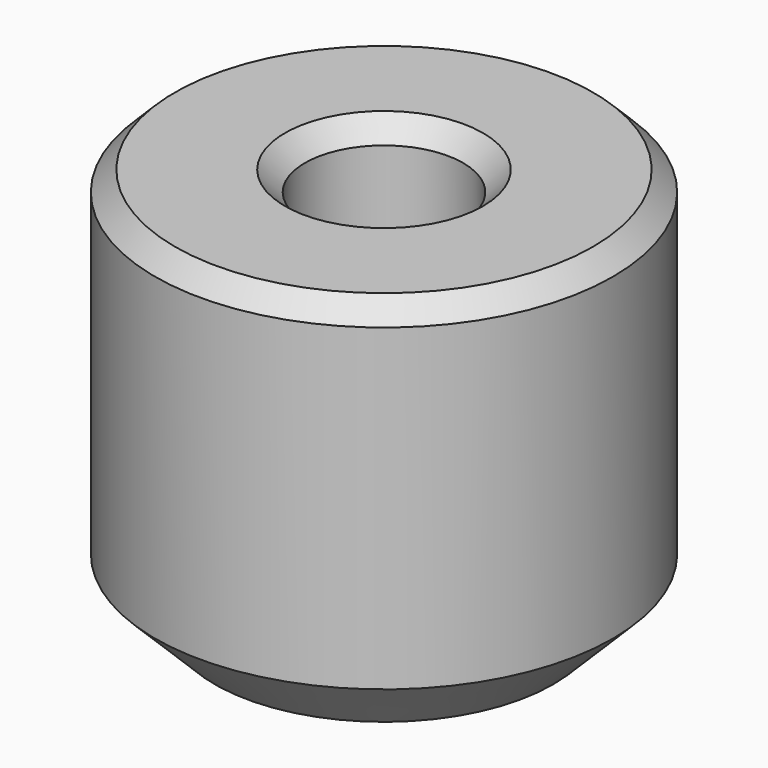
from build123d import *

# Parameters (mm, degrees)
F0_R     = 11.5
F0_R_2   = 3.985
F1_DEPTH = 20
F2_R     = 3.975
F3_DEPTH = 15.7
F4_SIZE  = 3
F5_SIZE  = 1


with BuildPart() as f1:
    # F0 (on Top) → F1 (new body)
    with BuildSketch(Plane.XY):
        Circle(F0_R)
        Circle(F0_R_2, mode=Mode.SUBTRACT)
        Circle(F0_R_2)
    extrude(amount=F1_DEPTH)

    # F2 (on face) → F3 (cut)
    with BuildSketch(Plane.XY.offset(20)):
        Circle(F2_R)
    extrude(amount=-F3_DEPTH, mode=Mode.SUBTRACT)

    # F4
    f4_edges = [f1.edges().sort_by_distance(p)[0] for p in [
        (-11.5, 0, 0),
    ]]
    chamfer(f4_edges, length=F4_SIZE)

    # F5
    f5_edges = [f1.edges().sort_by_distance(p)[0] for p in [
        (-11.5, 0, 20),
        (-3.975, 0, 20),
    ]]
    chamfer(f5_edges, length=F5_SIZE)


solid = f1.part
